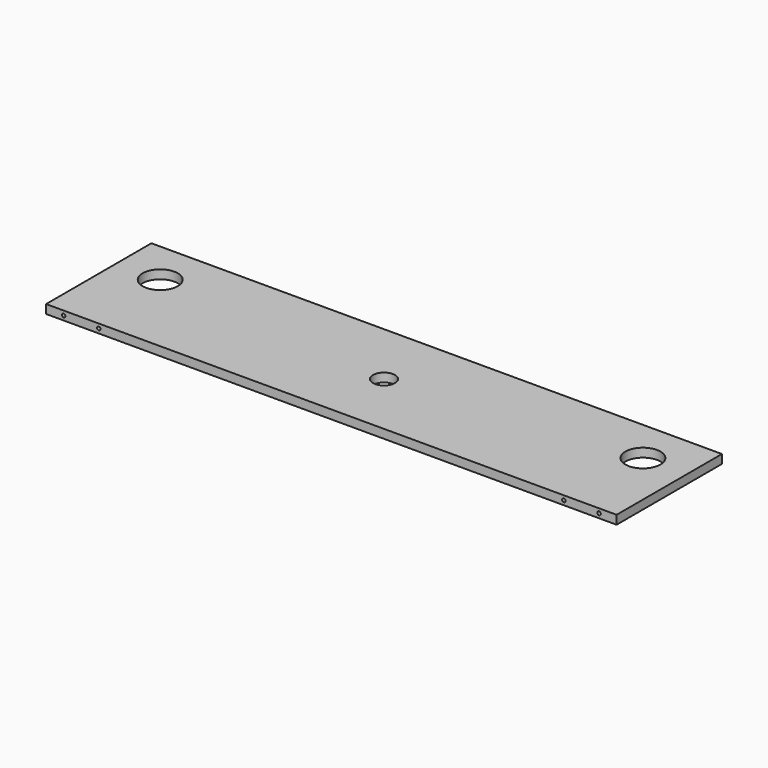
from build123d import *

# Parameters (mm, degrees)
F0_W     = 1300
F0_H     = 300
F0_R     = 40
F0_R_2   = 25
F1_DEPTH = 20
F2_R     = 4
F3_DEPTH = 40


with BuildPart() as f1:
    # F0 (on Top) → F1 (new body)
    with BuildSketch(Plane.XY):
        with Locations((650, 150)):
            Rectangle(F0_W, F0_H)
        with Locations((100, 200)):
            Circle(F0_R, mode=Mode.SUBTRACT)
        with Locations((650, 150)):
            Circle(F0_R_2, mode=Mode.SUBTRACT)
        with Locations((1200, 200)):
            Circle(F0_R, mode=Mode.SUBTRACT)
    extrude(amount=F1_DEPTH)

    # F2 (on face) → F3 (cut)
    with BuildSketch(Plane.XZ):
        with Locations((40, 10)):
            Circle(F2_R)
        with Locations((120, 10)):
            Circle(F2_R)
        with Locations((1260, 10)):
            Circle(F2_R)
        with Locations((1180, 10)):
            Circle(F2_R)
    extrude(amount=-F3_DEPTH, mode=Mode.SUBTRACT)


solid = f1.part
